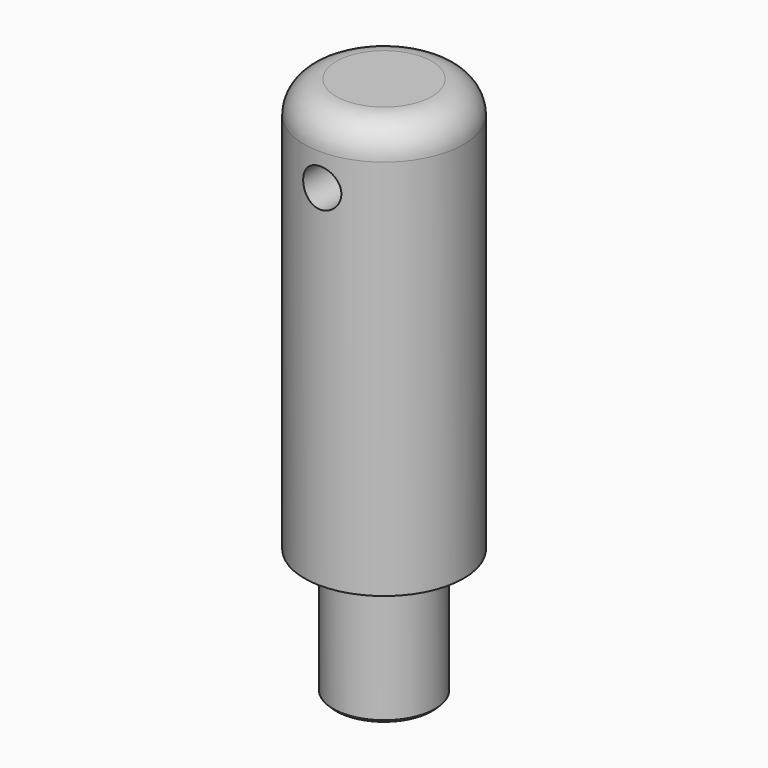
from build123d import *

# Parameters (mm, degrees)
F0_R     = 12.5
F1_DEPTH = 65
F2_R     = 5
F3_R     = 8
F4_DEPTH = 20
F5_SIZE  = 0.5
F6_R     = 3
F7_DEPTH = 20


with BuildPart() as f1:
    # F0 (on Top) → F1 (new body)
    with BuildSketch(Plane.XY):
        Circle(F0_R)
    extrude(amount=F1_DEPTH)

    # F2
    f2_edges = [f1.edges().sort_by_distance(p)[0] for p in [
        (-12.5, 0, 65),
    ]]
    fillet(f2_edges, radius=F2_R)

    # F3 (on face) → F4 (join)
    with BuildSketch(Plane(origin=(0, 0, 0), x_dir=(1, 0, 0), z_dir=(0, 0, -1))):
        Circle(F3_R)
    extrude(amount=F4_DEPTH)

    # F5
    f5_edges = [f1.edges().sort_by_distance(p)[0] for p in [
        (-8, 0, -20),
        (-8, 0, 0),
    ]]
    chamfer(f5_edges, length=F5_SIZE)

    # F6 (on Front) → F7 (cut, symmetric)
    with BuildSketch(Plane.XZ):
        with Locations((0, 55)):
            Circle(F6_R)
    extrude(amount=F7_DEPTH, both=True, mode=Mode.SUBTRACT)


solid = f1.part
